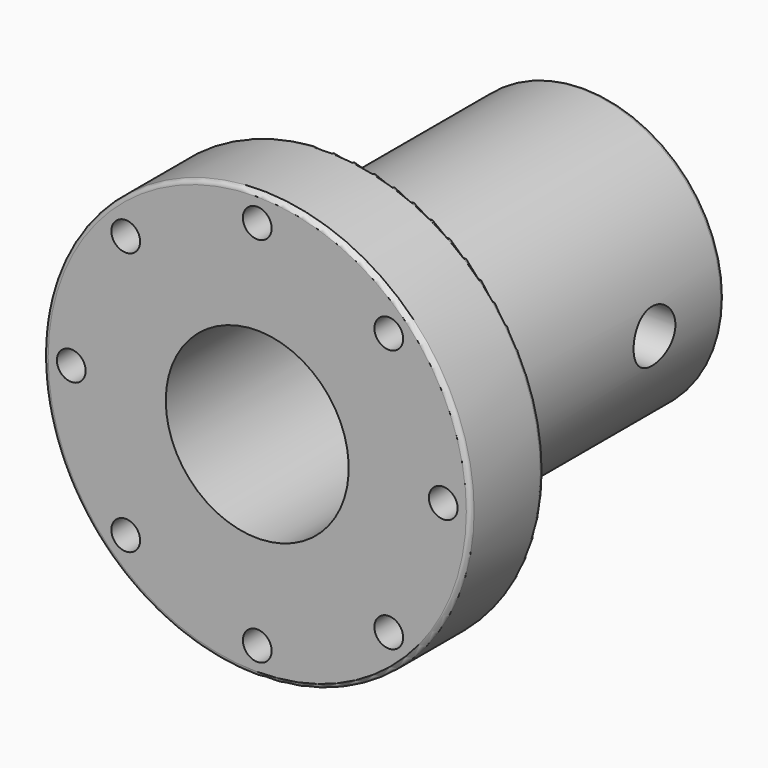
from build123d import *

# Parameters (mm, degrees)
F0_R     = 49
F1_DEPTH = 21
F2_R     = 32
F3_DEPTH = 73
F4_R     = 21
F5_DEPTH = 95
F6_R     = 3.3
F7_DEPTH = 22
F8_R     = 6
F9_DEPTH = 32.5
F10_R    = 1


with BuildPart() as f1:
    # F0 (on Front) → F1 (new body)
    with BuildSketch(Plane.XZ):
        Circle(F0_R)
    extrude(amount=-F1_DEPTH)

    # F2 (on face) → F3 (join)
    with BuildSketch(Plane(origin=(0, 21, 0), x_dir=(-1, 0, 0), z_dir=(0, 1, 0))):
        Circle(F2_R)
    extrude(amount=F3_DEPTH)

    # F4 (on face) → F5 (cut)
    with BuildSketch(Plane(origin=(0, 94, 0), x_dir=(-1, 0, 0), z_dir=(0, 1, 0))):
        Circle(F4_R)
    extrude(amount=-F5_DEPTH, mode=Mode.SUBTRACT)

    # F6 (on face) → F7 (cut)
    with BuildSketch(Plane(origin=(0, 21, 0), x_dir=(-1, 0, 0), z_dir=(0, 1, 0))):
        with Locations((-30.19346, 30.19346)):
            Circle(F6_R)
        with Locations((0, 42.7)):
            Circle(F6_R)
        with Locations((30.19346, 30.19346)):
            Circle(F6_R)
        with Locations((-30.19346, -30.19346)):
            Circle(F6_R)
        with Locations((0, -42.7)):
            Circle(F6_R)
        with Locations((30.19346, -30.19346)):
            Circle(F6_R)
        with Locations((-42.7, 0)):
            Circle(F6_R)
        with Locations((42.7, 0)):
            Circle(F6_R)
    extrude(amount=-F7_DEPTH, mode=Mode.SUBTRACT)

    # F8 (on Right) → F9 (cut, symmetric)
    with BuildSketch(Plane.YZ):
        with Locations((74, 0)):
            Circle(F8_R)
    extrude(amount=F9_DEPTH, both=True, mode=Mode.SUBTRACT)

    # F10
    f10_edges = [f1.edges().sort_by_distance(p)[0] for p in [
        (-49, 0, 0),
        (-49, 21, 0),
        (32, 94, 0),
        (21, 94, 0),
        (32, 21, 0),
    ]]
    fillet(f10_edges, radius=F10_R)


solid = f1.part
